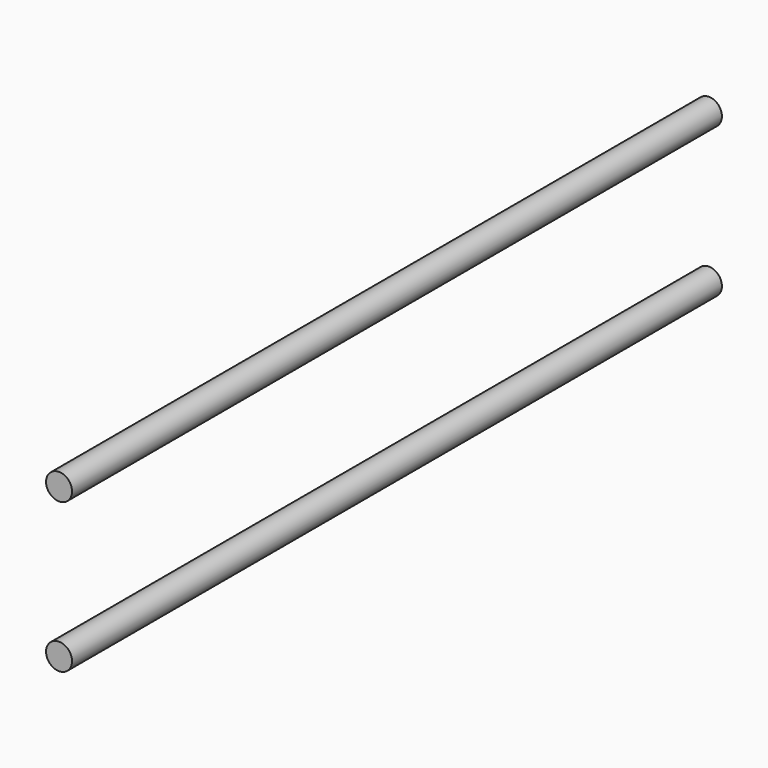
from build123d import *

# Parameters (mm, degrees)
F0_R     = 4
F1_DEPTH = 250


with BuildPart() as f1:
    # F0 (on Front) → F1 (new body)
    with BuildSketch(Plane.XZ):
        Circle(F0_R)
        with Locations((0, 46)):
            Circle(F0_R)
    extrude(amount=F1_DEPTH)


solid = f1.part
